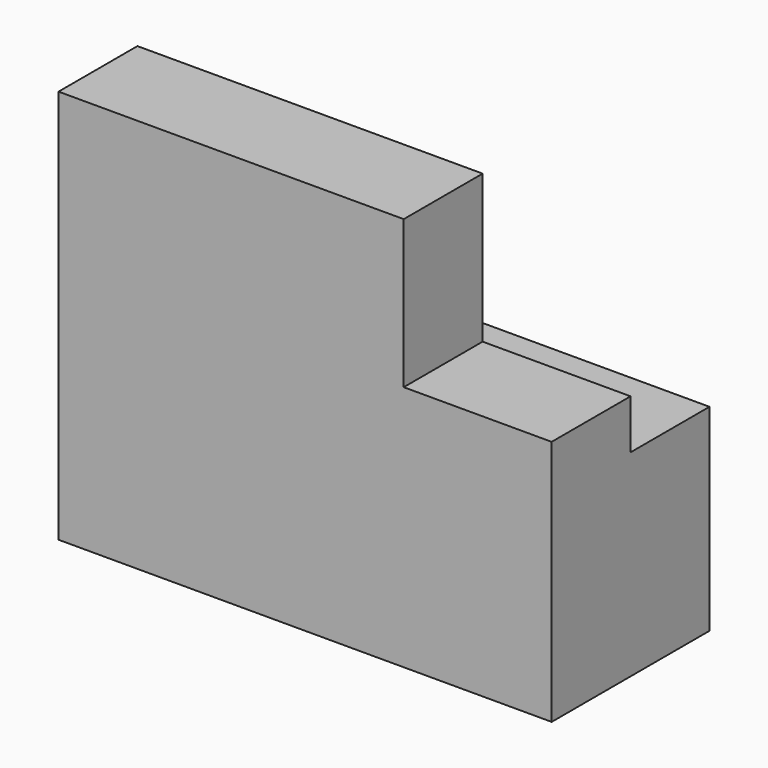
from build123d import *

# Parameters (mm, degrees)
F0_W     = 50
F0_H     = 40
F1_DEPTH = 10
F2_W     = 15
F2_H     = 15
F3_DEPTH = 10.001
F4_W     = 50
F4_H     = 10
F5_DEPTH = 20


with BuildPart() as f1:
    # F0 (on Front) → F1 (new body)
    with BuildSketch(Plane.XZ):
        Rectangle(F0_W, F0_H)
    extrude(amount=F1_DEPTH)

    # F2 (on Front) → F3 (cut, through all)
    with BuildSketch(Plane.XZ):
        with Locations((17.5, 12.5)):
            Rectangle(F2_W, F2_H)
    extrude(amount=F3_DEPTH, mode=Mode.SUBTRACT)

    # F4 (on Top) → F5 (join)
    with BuildSketch(Plane.XY):
        with Locations((0, 5)):
            Rectangle(F4_W, F4_H)
    extrude(amount=-F5_DEPTH)


solid = f1.part
